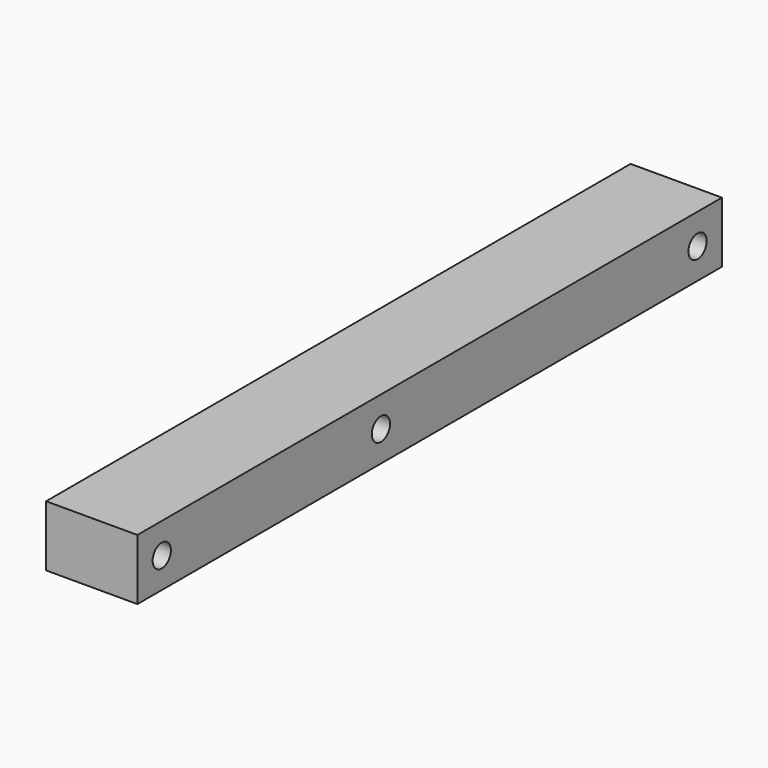
from build123d import *

# Parameters (mm, degrees)
F0_R     = 4.7625
F1_DEPTH = 38.1
F2_DEPTH = 25.4


with BuildPart() as f1:
    # F0 (on Right) → F1 (new body)
    with BuildSketch(Plane.YZ):
        with BuildLine():
            Line((0, 12.7), (-127, 12.7))
            Line((-127, 12.7), (-127, -12.7))
            Line((-127, -12.7), (0, -12.7))
            Line((0, -12.7), (0, -4.7625))
            ThreePointArc((0, -4.7625), (-4.7625, 0), (0, 4.7625))
            Line((0, 4.7625), (0, 12.7))
        make_face()
        with Locations((-114.3, 0)):
            Circle(F0_R, mode=Mode.SUBTRACT)
        with BuildLine():
            Line((177.8, 12.7), (0, 12.7))
            Line((0, 12.7), (0, 4.7625))
            ThreePointArc((0, 4.7625), (3.3675960454, 3.3675960454), (4.7625, 0))
            ThreePointArc((4.7625, 0), (3.3675960454, -3.3675960454), (0, -4.7625))
            Line((0, -4.7625), (0, -12.7))
            Line((0, -12.7), (177.8, -12.7))
            Line((177.8, -12.7), (177.8, 12.7))
        make_face()
        with Locations((165.1, 0)):
            Circle(F0_R, mode=Mode.SUBTRACT)
    extrude(amount=F1_DEPTH)

    # F0 (on Right) → F2 (join)
    with BuildSketch(Plane.YZ):
        with BuildLine():
            Line((0, 12.7), (-127, 12.7))
            Line((-127, 12.7), (-127, -12.7))
            Line((-127, -12.7), (0, -12.7))
            Line((0, -12.7), (0, -4.7625))
            ThreePointArc((0, -4.7625), (-4.7625, 0), (0, 4.7625))
            Line((0, 4.7625), (0, 12.7))
        make_face()
        with Locations((-114.3, 0)):
            Circle(F0_R, mode=Mode.SUBTRACT)
        with BuildLine():
            Line((177.8, 12.7), (0, 12.7))
            Line((0, 12.7), (0, 4.7625))
            ThreePointArc((0, 4.7625), (3.3675960454, 3.3675960454), (4.7625, 0))
            ThreePointArc((4.7625, 0), (3.3675960454, -3.3675960454), (0, -4.7625))
            Line((0, -4.7625), (0, -12.7))
            Line((0, -12.7), (177.8, -12.7))
            Line((177.8, -12.7), (177.8, 12.7))
        make_face()
        with Locations((165.1, 0)):
            Circle(F0_R, mode=Mode.SUBTRACT)
    extrude(amount=F2_DEPTH)


solid = f1.part
